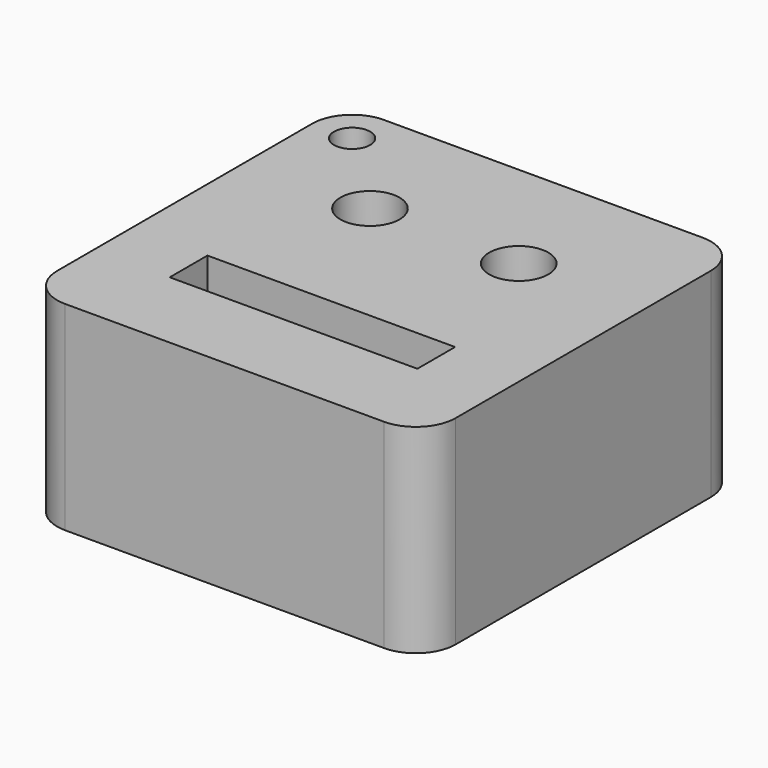
from build123d import *

# Parameters (mm, degrees)
F1_DEPTH = 5
F2_R     = 0.741879
F2_W     = 6.213516
F2_H     = 1.182511
F3_DEPTH = 25
F4_R     = 0.453629
F5_DEPTH = 5.001


with BuildPart() as f1:
    # F0 (on Top) → F1 (new body)
    with BuildSketch(Plane.XY):
        with BuildLine():
            Line((4, 5), (-4, 5))
            ThreePointArc((-4, 5), (-4.707107, 4.707107), (-5, 4))
            Line((-5, 4), (-5, -4))
            ThreePointArc((-5, -4), (-4.707107, -4.707107), (-4, -5))
            Line((-4, -5), (4, -5))
            ThreePointArc((4, -5), (4.707107, -4.707107), (5, -4))
            Line((5, -4), (5, 4))
            ThreePointArc((5, 4), (4.707107, 4.707107), (4, 5))
        make_face()
    extrude(amount=F1_DEPTH)

    # F2 (on face) → F3 (cut)
    with BuildSketch(Plane.XY.offset(5)):
        with Locations((-1.867029, 1.893217)):
            Circle(F2_R)
        with Locations((1.867029, 1.893217)):
            Circle(F2_R)
        with Locations((0, -2.24557)):
            Rectangle(F2_W, F2_H)
    extrude(amount=-F3_DEPTH, mode=Mode.SUBTRACT)

    # F4 (on face) → F5 (cut, through all)
    with BuildSketch(Plane.XY.offset(5)):
        with Locations((-4, 4)):
            Circle(F4_R)
    extrude(amount=-F5_DEPTH, mode=Mode.SUBTRACT)


solid = f1.part
